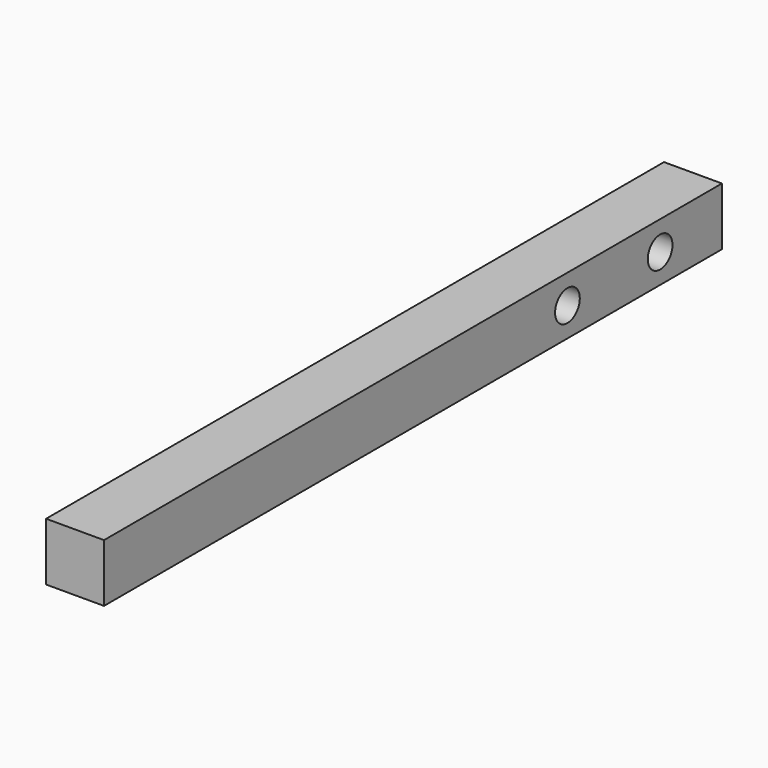
from build123d import *

# Parameters (mm, degrees)
F0_W     = 15
F0_H     = 200
F1_DEPTH = 15
F2_R     = 4
F3_DEPTH = 15


with BuildPart() as f1:
    # F0 (on Top) → F1 (new body)
    with BuildSketch(Plane.XY):
        Rectangle(F0_W, F0_H)
    extrude(amount=F1_DEPTH)

    # F2 (on face) → F3 (cut, through all)
    with BuildSketch(Plane.YZ.offset(7.5)):
        with Locations((50, 7.5)):
            Circle(F2_R)
        with Locations((80, 7.5)):
            Circle(F2_R)
    extrude(amount=-F3_DEPTH, mode=Mode.SUBTRACT)


solid = f1.part
